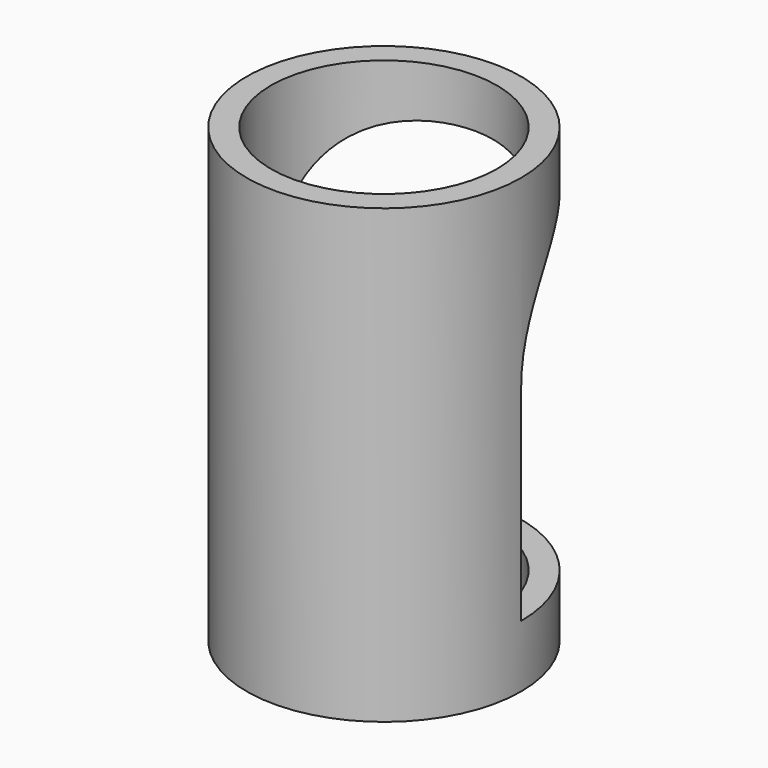
from build123d import *

# Parameters (mm, degrees)
F0_R          = 53.975
F1_DEPTH      = 177.8
F3_DEPTH      = 78.74
F3_DEPTH_BACK = 76.2
F4_R          = 44.45
F5_DEPTH      = 259.842


with BuildPart() as f1:
    # F0 (on Top) → F1 (new body)
    with BuildSketch(Plane.XY):
        Circle(F0_R)
    extrude(amount=F1_DEPTH)

    # F2 (on Right) → F3 (cut, two sides)
    with BuildSketch(Plane.YZ) as f3_sk:
        with BuildLine():
            Line((53.975, 24.4263578206), (53.975, 51.4128883973))
            ThreePointArc((53.975, 51.4128883973), (15.8089114855, 67.2217998827), (0, 105.3878883973))
            Line((0, 105.3878883973), (0, 24.4263578206))
            Line((0, 24.4263578206), (53.975, 24.4263578206))
        make_face()
        with BuildLine():
            Line((53.975, 105.3878883973), (53.975, 159.3628883973))
            ThreePointArc((53.975, 159.3628883973), (15.8089114855, 143.5539769118), (0, 105.3878883973))
            Line((0, 105.3878883973), (53.975, 105.3878883973))
        make_face()
        with BuildLine():
            ThreePointArc((0, 105.3878883973), (15.8089114855, 67.2217998827), (53.975, 51.4128883973))
            Line((53.975, 51.4128883973), (53.975, 105.3878883973))
            Line((53.975, 105.3878883973), (0, 105.3878883973))
        make_face()
    extrude(amount=-F3_DEPTH, mode=Mode.SUBTRACT)
    extrude(f3_sk.sketch, amount=F3_DEPTH_BACK, mode=Mode.SUBTRACT)

    # F4 (on face) → F5 (cut)
    with BuildSketch(Plane.XY.offset(177.8)):
        Circle(F4_R)
    extrude(amount=-F5_DEPTH, mode=Mode.SUBTRACT)


solid = f1.part
